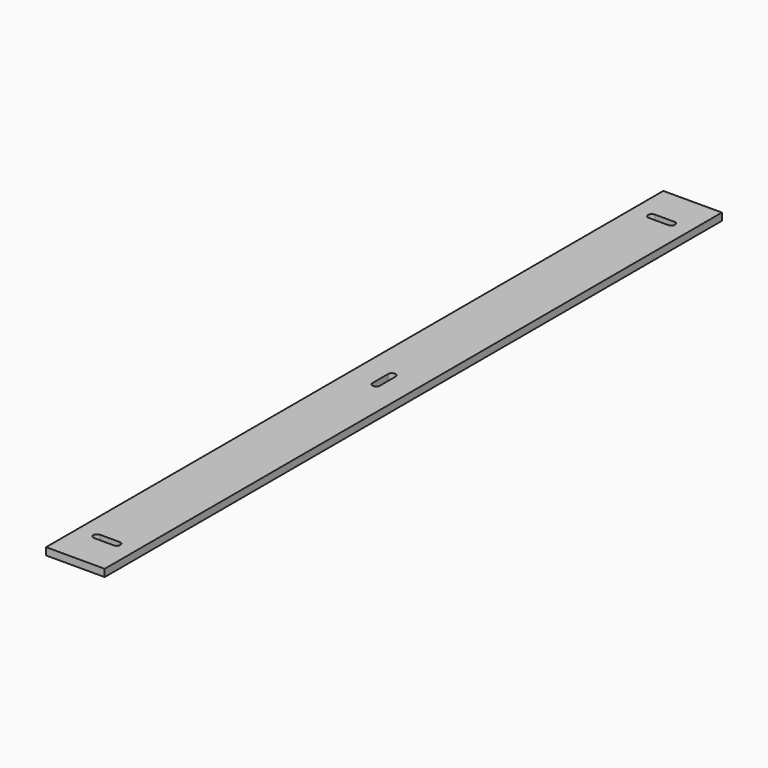
from build123d import *

# Parameters (mm, degrees)
F0_W     = 38.1
F0_H     = 4.7625
F1_DEPTH = 501.65
F3_DEPTH = 25.4


with BuildPart() as f1:
    # F0 (on Front) → F1 (new body)
    with BuildSketch(Plane.XZ):
        with Locations((19.05, 2.38125)):
            Rectangle(F0_W, F0_H)
    extrude(amount=F1_DEPTH)

    # F2 (on face) → F3 (cut)
    with BuildSketch(Plane.XY.offset(4.7625)):
        with BuildLine():
            Line((19.05, -248.44375), (19.05, -250.825))
            Line((19.05, -250.825), (19.05, -253.20625))
            ThreePointArc((19.05, -253.20625), (20.7337980227, -252.5087980227), (21.43125, -250.825))
            ThreePointArc((21.43125, -250.825), (20.7337980227, -249.1412019773), (19.05, -248.44375))
        make_face()
        with BuildLine():
            Line((19.05, -253.20625), (19.05, -250.825))
            Line((19.05, -250.825), (19.05, -248.44375))
            ThreePointArc((19.05, -248.44375), (17.3662019773, -249.1412019773), (16.66875, -250.825))
            ThreePointArc((16.66875, -250.825), (17.3662019773, -252.5087980227), (19.05, -253.20625))
        make_face()
        with BuildLine():
            ThreePointArc((21.43125, -250.825), (20.7337980227, -252.5087980227), (19.05, -253.20625))
            ThreePointArc((19.05, -253.20625), (17.3662019773, -252.5087980227), (16.66875, -250.825))
            Line((16.66875, -250.825), (16.66875, -257.175))
            ThreePointArc((16.66875, -257.175), (19.05, -259.55625), (21.43125, -257.175))
            Line((21.43125, -257.175), (21.43125, -250.825))
        make_face()
        with BuildLine():
            ThreePointArc((16.66875, -250.825), (17.3662019773, -249.1412019773), (19.05, -248.44375))
            ThreePointArc((19.05, -248.44375), (20.7337980227, -249.1412019773), (21.43125, -250.825))
            Line((21.43125, -250.825), (21.43125, -244.475))
            ThreePointArc((21.43125, -244.475), (19.05, -242.09375), (16.66875, -244.475))
            Line((16.66875, -244.475), (16.66875, -250.825))
        make_face()
        with BuildLine():
            ThreePointArc((25.5669526236, -478.63125), (27.9482026236, -476.25), (25.5669526236, -473.86875))
            Line((25.5669526236, -473.86875), (19.2169526236, -473.86875))
            Line((19.2169526236, -473.86875), (19.2154290805, -473.86875))
            Line((19.2154290805, -473.86875), (12.8669526236, -473.86875))
            ThreePointArc((12.8669526236, -473.86875), (10.4857026236, -476.25), (12.8669526236, -478.63125))
            Line((12.8669526236, -478.63125), (19.2169526236, -478.63125))
            Line((19.2169526236, -478.63125), (25.5669526236, -478.63125))
        make_face()
        with BuildLine():
            Line((19.2169526236, -23.01875), (12.8669526236, -23.01875))
            ThreePointArc((12.8669526236, -23.01875), (10.4857026236, -25.4), (12.8669526236, -27.78125))
            Line((12.8669526236, -27.78125), (19.2154290805, -27.78125))
            Line((19.2154290805, -27.78125), (19.2169526236, -27.78125))
            Line((19.2169526236, -27.78125), (25.5669526236, -27.78125))
            ThreePointArc((25.5669526236, -27.78125), (27.9482026236, -25.4), (25.5669526236, -23.01875))
            Line((25.5669526236, -23.01875), (19.2169526236, -23.01875))
        make_face()
    extrude(amount=-F3_DEPTH, mode=Mode.SUBTRACT)


solid = f1.part
